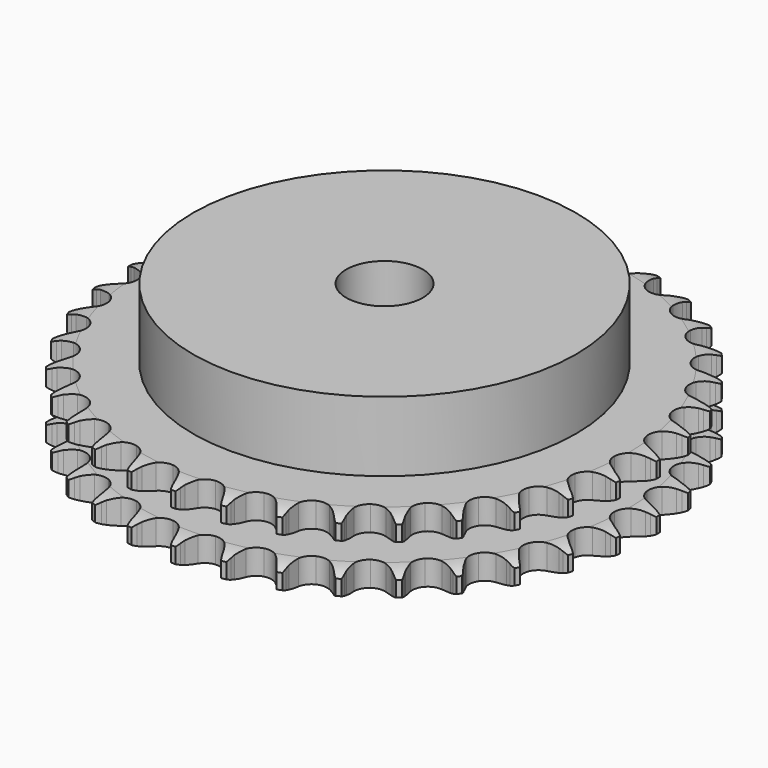
from build123d import *

# Parameters (mm, degrees)
PAD_DEPTH         = 15.4
SKETCH001_R       = 40
PAD001_DEPTH      = 30
SKETCH002_R       = 8
POCKET_DEPTH      = 0.001
POCKET_DEPTH_BACK = 30.001


with BuildPart() as part:
    # Sprocket → Pad (new body)
    with BuildSketch(Plane.XY):
        with BuildLine():
            ThreePointArc((-5.018589, 55.76109), (-4.446958, 54.986372), (-4.029689, 54.118712))
            Line((-4.029689, 54.118712), (-3.719914, 53.281922))
            ThreePointArc((-3.719914, 53.281922), (-3.228817, 52.200023), (-2.588432, 51.199231))
            ThreePointArc((-2.588432, 51.199231), (-1.447962, 50.243474), (0, 49.900618))
            ThreePointArc((0, 49.900618), (1.447962, 50.243474), (2.588432, 51.199231))
            ThreePointArc((2.588432, 51.199231), (3.228817, 52.200023), (3.719914, 53.281922))
            Line((3.719914, 53.281922), (4.029689, 54.118712))
            ThreePointArc((4.029689, 54.118712), (4.446958, 54.986372), (5.018589, 55.76109))
            ThreePointArc((5.018589, 55.76109), (5.442702, 54.896754), (5.698339, 53.968531))
            Line((5.698339, 53.968531), (5.853721, 53.089875))
            ThreePointArc((5.853721, 53.089875), (6.143745, 51.937675), (6.595141, 50.838621))
            ThreePointArc((6.595141, 50.838621), (7.546626, 49.694584), (8.910099, 49.098695))
            ThreePointArc((8.910099, 49.098695), (10.396011, 49.177497), (11.688811, 49.914256))
            Line((11.688811, 49.914256), (13.173987, 51.761443))
            ThreePointArc((13.173987, 51.761443), (13.390776, 52.15156), (13.628199, 52.529474))
            ThreePointArc((13.628199, 52.529474), (14.19369, 53.308684), (14.894465, 53.968882))
            ThreePointArc((14.894465, 53.968882), (15.157429, 53.042709), (15.243218, 52.083757))
            Line((15.243218, 52.083757), (15.239213, 51.191477))
            ThreePointArc((15.239213, 51.191477), (15.318843, 50.006007), (15.56674, 48.844015))
            ThreePointArc((15.56674, 48.844015), (16.298659, 47.548469), (17.533821, 46.718699))
            ThreePointArc((17.533821, 46.718699), (19.009924, 46.530915), (20.413501, 47.024995))
            Line((20.413501, 47.024995), (22.204639, 48.577309))
            ThreePointArc((22.204639, 48.577309), (22.487602, 48.922447), (22.788688, 49.251894))
            ThreePointArc((22.788688, 49.251894), (23.484225, 49.91761), (24.291621, 50.442071))
            ThreePointArc((24.291621, 50.442071), (24.384985, 49.483827), (24.298167, 48.524968))
            Line((24.298167, 48.524968), (24.134904, 47.647742))
            ThreePointArc((24.134904, 47.647742), (24.00158, 46.467105), (24.038012, 45.279523))
            ThreePointArc((24.038012, 45.279523), (24.52684, 43.874108), (25.593991, 42.837125))
            ThreePointArc((25.593991, 42.837125), (27.012843, 42.388791), (28.482085, 42.624313))
            Line((28.482085, 42.624313), (30.521614, 43.83186))
            ThreePointArc((30.521614, 43.83186), (30.861657, 44.120927), (31.21673, 44.391319))
            ThreePointArc((31.21673, 44.391319), (32.019957, 44.922143), (32.908024, 45.294009))
            ThreePointArc((32.908024, 45.294009), (32.828786, 44.334494), (32.572153, 43.406546))
            Line((32.572153, 43.406546), (32.254879, 42.57257))
            ThreePointArc((32.254879, 42.57257), (31.912887, 41.434712), (31.736682, 40.25971))
            ThreePointArc((31.736682, 40.25971), (31.966708, 38.789597), (32.831549, 37.578732))
            ThreePointArc((32.831549, 37.578732), (34.147546, 36.884256), (35.635231, 36.85365))
            Line((35.635231, 36.85365), (37.8576, 37.67762))
            ThreePointArc((37.8576, 37.67762), (38.243793, 37.901324), (38.64144, 38.10397))
            ThreePointArc((38.64144, 38.10397), (39.526541, 38.482842), (40.466736, 38.690161))
            ThreePointArc((40.466736, 38.690161), (40.217444, 37.760215), (39.799243, 36.893003))
            Line((39.799243, 36.893003), (39.338156, 36.12908))
            ThreePointArc((39.338156, 36.12908), (38.798487, 35.070573), (38.415309, 33.945916))
            ThreePointArc((38.415309, 33.945916), (38.37914, 32.458356), (39.013874, 31.112526))
            ThreePointArc((39.013874, 31.112526), (40.184719, 30.194231), (41.643032, 29.89848))
            Line((41.643032, 29.89848), (43.976812, 30.312389))
            ThreePointArc((43.976812, 30.312389), (44.396742, 30.463541), (44.824183, 30.591927))
            ThreePointArc((44.824183, 30.591927), (45.76271, 30.80667), (46.724814, 30.84278))
            ThreePointArc((46.724814, 30.84278), (46.31348, 29.972291), (45.747153, 29.193688))
            Line((45.747153, 29.193688), (45.157072, 28.524372))
            ThreePointArc((45.157072, 28.524372), (44.437072, 27.579238), (43.859237, 26.541073))
            ThreePointArc((43.859237, 26.541073), (43.558034, 25.083877), (43.942261, 23.646339))
            ThreePointArc((43.942261, 23.646339), (44.930322, 22.533739), (46.312391, 21.982349))
            Line((46.312391, 21.982349), (48.682573, 21.972894))
            ThreePointArc((48.682573, 21.972894), (49.122744, 22.046635), (49.56624, 22.096636))
            ThreePointArc((49.56624, 22.096636), (50.528028, 22.140347), (51.481118, 22.004086))
            ThreePointArc((51.481118, 22.004086), (50.920962, 21.221032), (50.224712, 20.556064))
            Line((50.224712, 20.556064), (49.524602, 20.002867))
            ThreePointArc((49.524602, 20.002867), (48.647413, 19.201482), (47.893493, 18.283178))
            ThreePointArc((47.893493, 18.283178), (47.336938, 16.903181), (47.458308, 15.420139))
            ThreePointArc((47.458308, 15.420139), (48.231828, 14.148993), (49.493232, 13.359687))
            Line((49.493232, 13.359687), (51.823635, 12.927171))
            ThreePointArc((51.823635, 12.927171), (52.2699, 12.921132), (52.715196, 12.89114))
            ThreePointArc((52.715196, 12.89114), (53.669334, 12.762415), (54.582777, 12.458163))
            ThreePointArc((54.582777, 12.458163), (53.891803, 11.787713), (53.088007, 11.257751))
            Line((53.088007, 11.257751), (52.300371, 10.838454))
            ThreePointArc((52.300371, 10.838454), (51.294186, 10.206576), (50.388412, 9.437646))
            ThreePointArc((50.388412, 9.437646), (49.594394, 8.179203), (49.449006, 6.698323))
            ThreePointArc((49.449006, 6.698323), (49.983123, 5.309488), (51.083319, 4.307634))
            Line((51.083319, 4.307634), (53.299044, 3.465959))
            ThreePointArc((53.299044, 3.465959), (53.737058, 3.380333), (54.169843, 3.271312))
            ThreePointArc((54.169843, 3.271312), (55.085662, 2.974288), (55.9301, 2.511824))
            ThreePointArc((55.9301, 2.511824), (55.130517, 1.975526), (54.24501, 1.597605))
            Line((54.24501, 1.597605), (53.395164, 1.325683))
            ThreePointArc((53.395164, 1.325683), (52.292322, 0.883621), (51.263806, 0.288781))
            ThreePointArc((51.263806, 0.288781), (50.257844, -0.807661), (49.850371, -2.238783))
            ThreePointArc((49.850371, -2.238783), (50.127919, -3.700669), (51.031547, -4.882871))
            Line((51.031547, -4.882871), (53.061377, -6.106652))
            ThreePointArc((53.061377, -6.106652), (53.477063, -6.269112), (53.883427, -6.453658))
            ThreePointArc((53.883427, -6.453658), (54.731493, -6.909435), (55.479784, -7.515247))
            ThreePointArc((55.479784, -7.515247), (54.597291, -7.900155), (53.658533, -8.11389))
            Line((53.658533, -8.11389), (52.773791, -8.229695))
            ThreePointArc((52.773791, -8.229695), (51.609739, -8.467734), (50.49154, -8.869366))
            ThreePointArc((50.49154, -8.869366), (49.305967, -9.768566), (48.649505, -11.103932))
            ThreePointArc((48.649505, -11.103932), (48.661563, -12.591883), (49.339579, -13.916436))
            Line((49.339579, -13.916436), (51.118274, -15.48299))
            ThreePointArc((51.118274, -15.48299), (51.498272, -15.717064), (51.865153, -15.971203))
            ThreePointArc((51.865153, -15.971203), (52.618208, -16.571083), (53.246302, -17.300772))
            ThreePointArc((53.246302, -17.300772), (52.309263, -17.521919), (51.347428, -17.564598))
            Line((51.347428, -17.564598), (50.456226, -17.520565))
            ThreePointArc((50.456226, -17.520565), (49.268377, -17.546929), (48.096433, -17.742444))
            ThreePointArc((48.096433, -17.742444), (46.769355, -18.415501), (45.885004, -19.612192))
            ThreePointArc((45.885004, -19.612192), (45.631184, -21.078384), (46.061796, -22.502715))
            Line((46.061796, -22.502715), (47.532188, -24.361693))
            ThreePointArc((47.532188, -24.361693), (47.864283, -24.659855), (48.17989, -24.97542))
            ThreePointArc((48.17989, -24.97542), (48.813731, -25.700123), (49.301439, -26.530236))
            ThreePointArc((49.301439, -26.530236), (48.339972, -26.580514), (47.385973, -26.450765))
            Line((47.385973, -26.450765), (46.516956, -26.248309))
            ThreePointArc((46.516956, -26.248309), (45.343489, -26.062151), (44.155468, -26.045265))
            ThreePointArc((44.155468, -26.045265), (42.729537, -26.470547), (41.645721, -27.4901))
            ThreePointArc((41.645721, -27.4901), (41.134181, -28.887408), (41.303549, -30.365738))
            Line((41.303549, -30.365738), (42.418378, -32.45739))
            ThreePointArc((42.418378, -32.45739), (42.691897, -32.810059), (42.946086, -33.176906))
            ThreePointArc((42.946086, -33.176906), (43.44034, -34.003139), (43.771988, -34.906996))
            ThreePointArc((43.771988, -34.906996), (42.816994, -34.784789), (41.901495, -34.486782))
            Line((41.901495, -34.486782), (41.082593, -34.132411))
            ThreePointArc((41.082593, -34.132411), (39.961224, -33.739714), (38.79531, -33.510971))
            ThreePointArc((38.79531, -33.510971), (37.316357, -33.674808), (36.06791, -34.484453))
            ThreePointArc((36.06791, -34.484453), (35.315092, -35.767968), (35.217772, -37.252782))
            Line((35.217772, -37.252782), (35.941206, -39.50988))
            ThreePointArc((35.941206, -39.50988), (36.147359, -39.905721), (36.33196, -40.312059))
            ThreePointArc((36.33196, -40.312059), (36.670741, -41.213267), (36.83567, -42.161817))
            ThreePointArc((36.83567, -42.161817), (35.917844, -41.871053), (35.070268, -41.414366))
            Line((35.070268, -41.414366), (34.327801, -40.91947))
            ThreePointArc((34.327801, -40.91947), (33.294572, -40.332855), (32.188239, -39.899606))
            ThreePointArc((32.188239, -39.899606), (30.703799, -39.796733), (29.330847, -40.370448))
            ThreePointArc((29.330847, -40.370448), (28.360947, -41.498915), (28.000067, -42.94249))
            Line((28.000067, -42.94249), (28.308854, -45.29249))
            ThreePointArc((28.308854, -45.29249), (28.441014, -45.718779), (28.550094, -46.15155))
            ThreePointArc((28.550094, -46.15155), (28.722514, -47.098766), (28.715422, -48.061522))
            ThreePointArc((28.715422, -48.061522), (27.864264, -47.611547), (27.111854, -47.010858))
            Line((27.111854, -47.010858), (26.469686, -46.391343))
            ThreePointArc((26.469686, -46.391343), (25.557805, -45.629665), (24.546611, -45.005834))
            ThreePointArc((24.546611, -45.005834), (23.104395, -44.639558), (21.651067, -44.958903))
            ThreePointArc((21.651067, -44.958903), (20.495257, -45.896053), (19.882417, -47.251992))
            Line((19.882417, -47.251992), (19.766633, -49.619363))
            ThreePointArc((19.766633, -49.619363), (19.820552, -50.062399), (19.850605, -50.507691))
            ThreePointArc((19.850605, -50.507691), (19.851122, -51.470473), (19.672238, -52.41649))
            ThreePointArc((19.672238, -52.41649), (18.915104, -51.821766), (18.282042, -51.096383))
            Line((18.282042, -51.096383), (17.760813, -50.37216))
            ThreePointArc((17.760813, -50.37216), (16.99959, -49.4599), (16.116034, -48.665539))
            ThreePointArc((16.116034, -48.665539), (14.762397, -48.047631), (13.275403, -48.102342))
            ThreePointArc((13.275403, -48.102342), (11.970834, -48.818054), (11.125729, -50.042775))
            Line((11.125729, -50.042775), (10.589096, -52.351428))
            ThreePointArc((10.589096, -52.351428), (10.563041, -52.796972), (10.513101, -53.240474))
            ThreePointArc((10.513101, -53.240474), (10.341698, -54.187876), (9.996771, -55.086749))
            ThreePointArc((9.996771, -55.086749), (9.357997, -54.366391), (8.864631, -53.539628))
            Line((8.864631, -53.539628), (8.481093, -52.733974))
            ThreePointArc((8.481093, -52.733974), (7.894993, -51.700453), (7.167476, -50.761093))
            ThreePointArc((7.167476, -50.761093), (5.945923, -49.911414), (4.473057, -49.699733))
            ThreePointArc((4.473057, -49.699733), (3.061657, -50.171002), (2.011452, -51.225143))
            Line((2.011452, -51.225143), (1.071216, -53.400875))
            ThreePointArc((1.071216, -53.400875), (0.966025, -53.834607), (0.837697, -54.262065))
            ThreePointArc((0.837697, -54.262065), (0.499884, -55.163636), (0, -55.986475))
            ThreePointArc((0, -55.986475), (-0.499884, -55.163636), (-0.837697, -54.262065))
            Line((-0.837697, -54.262065), (-1.071216, -53.400875))
            ThreePointArc((-1.071216, -53.400875), (-1.463355, -52.27931), (-2.011452, -51.225143))
            ThreePointArc((-2.011452, -51.225143), (-3.061657, -50.171002), (-4.473057, -49.699733))
            ThreePointArc((-4.473057, -49.699733), (-5.945923, -49.911414), (-7.167476, -50.761093))
            Line((-7.167476, -50.761093), (-8.481093, -52.733974))
            ThreePointArc((-8.481093, -52.733974), (-8.662039, -53.141953), (-8.864631, -53.539628))
            ThreePointArc((-8.864631, -53.539628), (-9.357997, -54.366391), (-9.996771, -55.086749))
            ThreePointArc((-9.996771, -55.086749), (-10.341698, -54.187876), (-10.513101, -53.240474))
            Line((-10.513101, -53.240474), (-10.589096, -52.351428))
            ThreePointArc((-10.589096, -52.351428), (-10.774669, -51.177868), (-11.125729, -50.042775))
            ThreePointArc((-11.125729, -50.042775), (-11.970834, -48.818054), (-13.275403, -48.102342))
            ThreePointArc((-13.275403, -48.102342), (-14.762397, -48.047631), (-16.116034, -48.665539))
            Line((-16.116034, -48.665539), (-17.760813, -50.37216))
            ThreePointArc((-17.760813, -50.37216), (-18.011699, -50.741273), (-18.282042, -51.096383))
            ThreePointArc((-18.282042, -51.096383), (-18.915104, -51.821766), (-19.672238, -52.41649))
            ThreePointArc((-19.672238, -52.41649), (-19.851122, -51.470473), (-19.850605, -50.507691))
            Line((-19.850605, -50.507691), (-19.766633, -49.619363))
            ThreePointArc((-19.766633, -49.619363), (-19.739677, -48.431527), (-19.882417, -47.251992))
            ThreePointArc((-19.882417, -47.251992), (-20.495257, -45.896053), (-21.651067, -44.958903))
            ThreePointArc((-21.651067, -44.958903), (-23.104395, -44.639558), (-24.546611, -45.005834))
            Line((-24.546611, -45.005834), (-26.469686, -46.391343))
            ThreePointArc((-26.469686, -46.391343), (-26.782447, -46.709727), (-27.111854, -47.010858))
            ThreePointArc((-27.111854, -47.010858), (-27.864264, -47.611547), (-28.715422, -48.061522))
            ThreePointArc((-28.715422, -48.061522), (-28.722514, -47.098766), (-28.550094, -46.15155))
            Line((-28.550094, -46.15155), (-28.308854, -45.29249))
            ThreePointArc((-28.308854, -45.29249), (-28.070236, -44.128557), (-28.000067, -42.94249))
            ThreePointArc((-28.000067, -42.94249), (-28.360947, -41.498915), (-29.330847, -40.370448))
            ThreePointArc((-29.330847, -40.370448), (-30.703799, -39.796733), (-32.188239, -39.899606))
            Line((-32.188239, -39.899606), (-34.327801, -40.91947))
            ThreePointArc((-34.327801, -40.91947), (-34.692386, -41.176892), (-35.070268, -41.414366))
            ThreePointArc((-35.070268, -41.414366), (-35.917844, -41.871053), (-36.83567, -42.161817))
            ThreePointArc((-36.83567, -42.161817), (-36.670741, -41.213267), (-36.33196, -40.312059))
            Line((-36.33196, -40.312059), (-35.941206, -39.50988))
            ThreePointArc((-35.941206, -39.50988), (-35.498594, -38.407259), (-35.217772, -37.252782))
            ThreePointArc((-35.217772, -37.252782), (-35.315092, -35.767968), (-36.06791, -34.484453))
            ThreePointArc((-36.06791, -34.484453), (-37.316357, -33.674808), (-38.79531, -33.510971))
            Line((-38.79531, -33.510971), (-41.082593, -34.132411))
            ThreePointArc((-41.082593, -34.132411), (-41.487283, -34.320597), (-41.901495, -34.486782))
            ThreePointArc((-41.901495, -34.486782), (-42.816994, -34.784789), (-43.771988, -34.906996))
            ThreePointArc((-43.771988, -34.906996), (-43.44034, -34.003139), (-42.946086, -33.176906))
            Line((-42.946086, -33.176906), (-42.418378, -32.45739))
            ThreePointArc((-42.418378, -32.45739), (-41.785998, -31.45152), (-41.303549, -30.365738))
            ThreePointArc((-41.303549, -30.365738), (-41.134181, -28.887408), (-41.645721, -27.4901))
            ThreePointArc((-41.645721, -27.4901), (-42.729537, -26.470547), (-44.155468, -26.045265))
            Line((-44.155468, -26.045265), (-46.516956, -26.248309))
            ThreePointArc((-46.516956, -26.248309), (-46.948745, -26.361211), (-47.385973, -26.450765))
            ThreePointArc((-47.385973, -26.450765), (-48.339972, -26.580514), (-49.301439, -26.530236))
            ThreePointArc((-49.301439, -26.530236), (-48.813731, -25.700123), (-48.17989, -24.97542))
            Line((-48.17989, -24.97542), (-47.532188, -24.361693))
            ThreePointArc((-47.532188, -24.361693), (-46.730365, -23.484903), (-46.061796, -22.502715))
            ThreePointArc((-46.061796, -22.502715), (-45.631184, -21.078384), (-45.885004, -19.612192))
            ThreePointArc((-45.885004, -19.612192), (-46.769355, -18.415501), (-48.096433, -17.742444))
            Line((-48.096433, -17.742444), (-50.456226, -17.520565))
            ThreePointArc((-50.456226, -17.520565), (-50.901235, -17.554553), (-51.347428, -17.564598))
            ThreePointArc((-51.347428, -17.564598), (-52.309263, -17.521919), (-53.246302, -17.300772))
            ThreePointArc((-53.246302, -17.300772), (-52.618208, -16.571083), (-51.865153, -15.971203))
            Line((-51.865153, -15.971203), (-51.118274, -15.48299))
            ThreePointArc((-51.118274, -15.48299), (-50.17278, -14.763462), (-49.339579, -13.916436))
            ThreePointArc((-49.339579, -13.916436), (-48.661563, -12.591883), (-48.649505, -11.103932))
            ThreePointArc((-48.649505, -11.103932), (-49.305967, -9.768566), (-50.49154, -8.869366))
            Line((-50.49154, -8.869366), (-52.773791, -8.229695))
            ThreePointArc((-52.773791, -8.229695), (-53.217718, -8.183678), (-53.658533, -8.11389))
            ThreePointArc((-53.658533, -8.11389), (-54.597291, -7.900155), (-55.479784, -7.515247))
            ThreePointArc((-55.479784, -7.515247), (-54.731493, -6.909435), (-53.883427, -6.453658))
            Line((-53.883427, -6.453658), (-53.061377, -6.106652))
            ThreePointArc((-53.061377, -6.106652), (-52.002601, -5.567511), (-51.031547, -4.882871))
            ThreePointArc((-51.031547, -4.882871), (-50.127919, -3.700669), (-49.850371, -2.238783))
            ThreePointArc((-49.850371, -2.238783), (-50.257844, -0.807661), (-51.263806, 0.288781))
            Line((-51.263806, 0.288781), (-53.395164, 1.325683))
            ThreePointArc((-53.395164, 1.325683), (-53.823739, 1.450228), (-54.24501, 1.597605))
            ThreePointArc((-54.24501, 1.597605), (-55.130517, 1.975526), (-55.9301, 2.511824))
            ThreePointArc((-55.9301, 2.511824), (-55.085662, 2.974288), (-54.169843, 3.271312))
            Line((-54.169843, 3.271312), (-53.299044, 3.465959))
            ThreePointArc((-53.299044, 3.465959), (-52.161016, 3.807384), (-51.083319, 4.307634))
            ThreePointArc((-51.083319, 4.307634), (-49.983123, 5.309488), (-49.449006, 6.698323))
            ThreePointArc((-49.449006, 6.698323), (-49.594394, 8.179203), (-50.388412, 9.437646))
            Line((-50.388412, 9.437646), (-52.300371, 10.838454))
            ThreePointArc((-52.300371, 10.838454), (-52.699822, 11.037522), (-53.088007, 11.257751))
            ThreePointArc((-53.088007, 11.257751), (-53.891803, 11.787713), (-54.582777, 12.458163))
            ThreePointArc((-54.582777, 12.458163), (-53.669334, 12.762415), (-52.715196, 12.89114))
            Line((-52.715196, 12.89114), (-51.823635, 12.927171))
            ThreePointArc((-51.823635, 12.927171), (-50.642932, 13.059906), (-49.493232, 13.359687))
            ThreePointArc((-49.493232, 13.359687), (-48.231828, 14.148993), (-47.458308, 15.420139))
            ThreePointArc((-47.458308, 15.420139), (-47.336938, 16.903181), (-47.893493, 18.283178))
            Line((-47.893493, 18.283178), (-49.524602, 20.002867))
            ThreePointArc((-49.524602, 20.002867), (-49.882088, 20.270061), (-50.224712, 20.556064))
            ThreePointArc((-50.224712, 20.556064), (-50.920962, 21.221032), (-51.481118, 22.004086))
            ThreePointArc((-51.481118, 22.004086), (-50.528028, 22.140347), (-49.56624, 22.096636))
            Line((-49.56624, 22.096636), (-48.682573, 21.972894))
            ThreePointArc((-48.682573, 21.972894), (-47.497143, 21.892673), (-46.312391, 21.982349))
            ThreePointArc((-46.312391, 21.982349), (-44.930322, 22.533739), (-43.942261, 23.646339))
            ThreePointArc((-43.942261, 23.646339), (-43.558034, 25.083877), (-43.859237, 26.541073))
            Line((-43.859237, 26.541073), (-45.157072, 28.524372))
            ThreePointArc((-45.157072, 28.524372), (-45.461103, 28.851103), (-45.747153, 29.193688))
            ThreePointArc((-45.747153, 29.193688), (-46.31348, 29.972291), (-46.724814, 30.84278))
            ThreePointArc((-46.724814, 30.84278), (-45.76271, 30.80667), (-44.824183, 30.591927))
            Line((-44.824183, 30.591927), (-43.976812, 30.312389))
            ThreePointArc((-43.976812, 30.312389), (-42.824757, 30.021791), (-41.643032, 29.89848))
            ThreePointArc((-41.643032, 29.89848), (-40.184719, 30.194231), (-39.013874, 31.112526))
            ThreePointArc((-39.013874, 31.112526), (-38.37914, 32.458356), (-38.415309, 33.945916))
            Line((-38.415309, 33.945916), (-39.338156, 36.12908))
            ThreePointArc((-39.338156, 36.12908), (-39.578961, 36.504848), (-39.799243, 36.893003))
            ThreePointArc((-39.799243, 36.893003), (-40.217444, 37.760215), (-40.466736, 38.690161))
            ThreePointArc((-40.466736, 38.690161), (-39.526541, 38.482842), (-38.64144, 38.10397))
            Line((-38.64144, 38.10397), (-37.8576, 37.67762))
            ThreePointArc((-37.8576, 37.67762), (-36.775947, 37.185984), (-35.635231, 36.85365))
            ThreePointArc((-35.635231, 36.85365), (-34.147546, 36.884256), (-32.831549, 37.578732))
            ThreePointArc((-32.831549, 37.578732), (-31.966708, 38.789597), (-31.736682, 40.25971))
            Line((-31.736682, 40.25971), (-32.254879, 42.57257))
            ThreePointArc((-32.254879, 42.57257), (-32.424719, 42.985296), (-32.572153, 43.406546))
            ThreePointArc((-32.572153, 43.406546), (-32.828786, 44.334494), (-32.908024, 45.294009))
            ThreePointArc((-32.908024, 45.294009), (-32.019957, 44.922143), (-31.21673, 44.391319))
            Line((-31.21673, 44.391319), (-30.521614, 43.83186))
            ThreePointArc((-30.521614, 43.83186), (-29.545129, 43.154989), (-28.482085, 42.624313))
            ThreePointArc((-28.482085, 42.624313), (-27.012843, 42.388791), (-25.593991, 42.837125))
            ThreePointArc((-25.593991, 42.837125), (-24.52684, 43.874108), (-24.038012, 45.279523))
            Line((-24.038012, 45.279523), (-24.134904, 47.647742))
            ThreePointArc((-24.134904, 47.647742), (-24.228319, 48.084162), (-24.298167, 48.524968))
            ThreePointArc((-24.298167, 48.524968), (-24.384985, 49.483827), (-24.291621, 50.442071))
            ThreePointArc((-24.291621, 50.442071), (-23.484225, 49.91761), (-22.788688, 49.251894))
            Line((-22.788688, 49.251894), (-22.204639, 48.577309))
            ThreePointArc((-22.204639, 48.577309), (-21.364706, 47.736957), (-20.413501, 47.024995))
            ThreePointArc((-20.413501, 47.024995), (-19.009924, 46.530915), (-17.533821, 46.718699))
            ThreePointArc((-17.533821, 46.718699), (-16.298659, 47.548469), (-15.56674, 48.844015))
            Line((-15.56674, 48.844015), (-15.239213, 51.191477))
            ThreePointArc((-15.239213, 51.191477), (-15.253202, 51.637563), (-15.243218, 52.083757))
            ThreePointArc((-15.243218, 52.083757), (-15.157429, 53.042709), (-14.894465, 53.968882))
            ThreePointArc((-14.894465, 53.968882), (-14.19369, 53.308684), (-13.628199, 52.529474))
            Line((-13.628199, 52.529474), (-13.173987, 51.761443))
            ThreePointArc((-13.173987, 51.761443), (-12.497603, 50.78462), (-11.688811, 49.914256))
            ThreePointArc((-11.688811, 49.914256), (-10.396011, 49.177497), (-8.910099, 49.098695))
            ThreePointArc((-8.910099, 49.098695), (-7.546626, 49.694584), (-6.595141, 50.838621))
            Line((-6.595141, 50.838621), (-5.853721, 53.089875))
            ThreePointArc((-5.853721, 53.089875), (-5.787833, 53.531291), (-5.698339, 53.968531))
            ThreePointArc((-5.698339, 53.968531), (-5.442702, 54.896754), (-5.018589, 55.76109))
        make_face()
    extrude(amount=PAD_DEPTH)

    # Sketch → Groove (revolve, cut)
    with BuildSketch(Plane.XZ):
        with BuildLine():
            ThreePointArc((50.841101, 0), (53.077169, 0.253206), (55.2, 1))
            Line((55.2, 1), (55.2, 4.2))
            ThreePointArc((55.2, 4.2), (53.077169, 4.946794), (50.841101, 5.2))
            Line((40, 5.2), (50.841101, 5.2))
            Line((40, 10.2), (40, 5.2))
            Line((50.841101, 10.2), (40, 10.2))
            ThreePointArc((50.841101, 10.2), (53.077169, 10.453206), (55.2, 11.2))
            Line((55.2, 11.2), (55.2, 14.4))
            ThreePointArc((55.2, 14.4), (53.077169, 15.146794), (50.841101, 15.4))
            Line((50.841101, 15.4), (60.841101, 15.4))
            Line((60.841101, 15.4), (60.841101, 0))
            Line((50.841101, 0), (60.841101, 0))
        make_face()
    revolve(axis=Axis((0, 0, 0), (0, 0, 1)), mode=Mode.SUBTRACT)

    # Sketch001 → Pad001 (join)
    with BuildSketch(Plane.XY):
        Circle(SKETCH001_R)
    extrude(amount=PAD001_DEPTH)

    # Sketch002 → Pocket (cut, two sides)
    with BuildSketch(Plane.XY) as pocket_sk:
        Circle(SKETCH002_R)
    extrude(amount=-POCKET_DEPTH, mode=Mode.SUBTRACT)
    extrude(pocket_sk.sketch, amount=POCKET_DEPTH_BACK, mode=Mode.SUBTRACT)


solid = part.part
